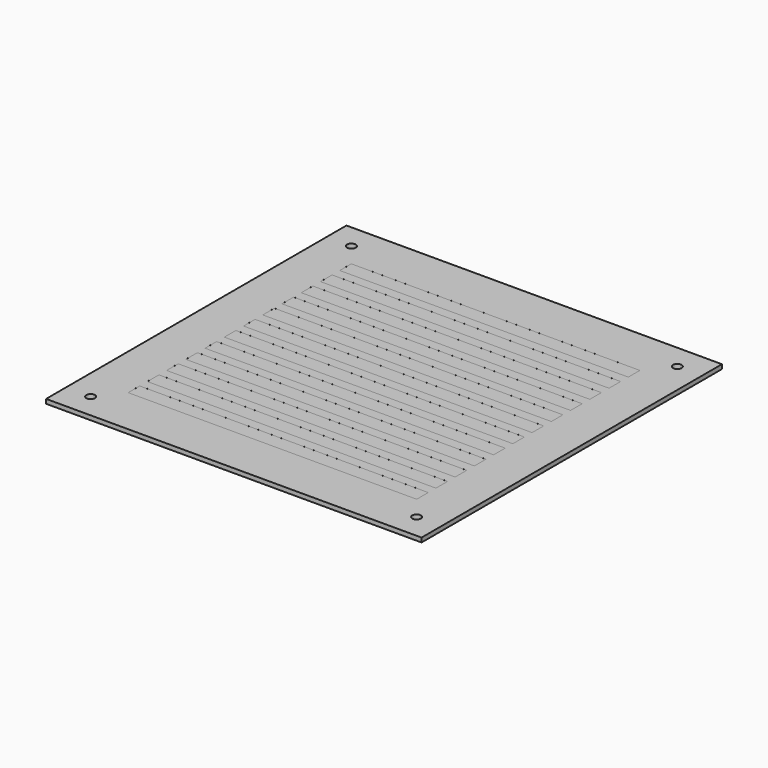
from build123d import *

# Parameters (mm, degrees)
SKETCH007_W            = 259.2
SKETCH007_H            = 259.2
PAD004_DEPTH           = 3
SKETCH008_W            = 199.2
SKETCH008_H            = 10
POCKET003_DEPTH        = 9.01
LINEARPATTERN005_COUNT = 12
LINEARPATTERN005_PITCH = 16.6
SKETCH013_R            = 3
POCKET008_DEPTH        = 12.001


with BuildPart() as part:
    # Sketch007 → Pad004 (new body)
    with BuildSketch(Plane.XY.offset(-9)):
        Rectangle(SKETCH007_W, SKETCH007_H)
    extrude(amount=-PAD004_DEPTH)

    # Sketch008 → Pocket003 (cut)
    with BuildSketch(Plane.XY):
        with Locations((0, 91.3)):
            Rectangle(SKETCH008_W, SKETCH008_H)
    pocket003 = extrude(amount=-POCKET003_DEPTH, mode=Mode.SUBTRACT)

    # LinearPattern005: Pocket003 ×12
    with Locations(*[(0, -i * LINEARPATTERN005_PITCH, 0) for i in range(1, LINEARPATTERN005_COUNT)]):
        add(pocket003, mode=Mode.SUBTRACT)

    # Sketch013 → Pocket008 (cut, through all)
    with BuildSketch(Plane.XY):
        with Locations((-112.5, 112.5)):
            Circle(SKETCH013_R)
        with Locations((112.5, 112.5)):
            Circle(SKETCH013_R)
        with Locations((112.5, -112.5)):
            Circle(SKETCH013_R)
        with Locations((-112.5, -112.5)):
            Circle(SKETCH013_R)
    extrude(amount=-POCKET008_DEPTH, mode=Mode.SUBTRACT)


solid = part.part
